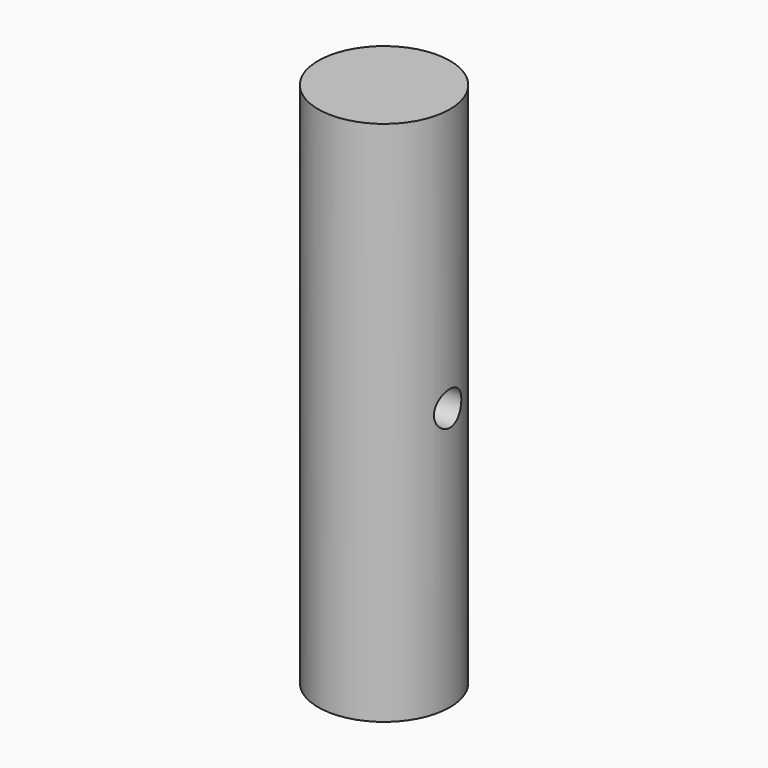
from build123d import *

# Parameters (mm, degrees)
F0_R      = 6.35
F1_DEPTH  = 50.8
F2_R      = 1.651
F3_DEPTH  = 6.351
F3_FACE_R = 1.651
F4_DEPTH  = 25.4


with BuildPart() as f1:
    # F0 (on Top) → F1 (new body)
    with BuildSketch(Plane.XY):
        Circle(F0_R)
    extrude(amount=F1_DEPTH)

    # F2 (on Right) → F3 (cut, through all)
    with BuildSketch(Plane.YZ):
        with Locations((0, 25.4)):
            Circle(F2_R)
    extrude(amount=-F3_DEPTH, mode=Mode.SUBTRACT)

    # F3_face (on face) → F4 (cut)
    with BuildSketch(Plane(origin=(0, 0, 25.4), x_dir=(0, 1, 0), z_dir=(-1, 0, 0))):
        Circle(F3_FACE_R)
    extrude(amount=-F4_DEPTH, mode=Mode.SUBTRACT)


solid = f1.part
